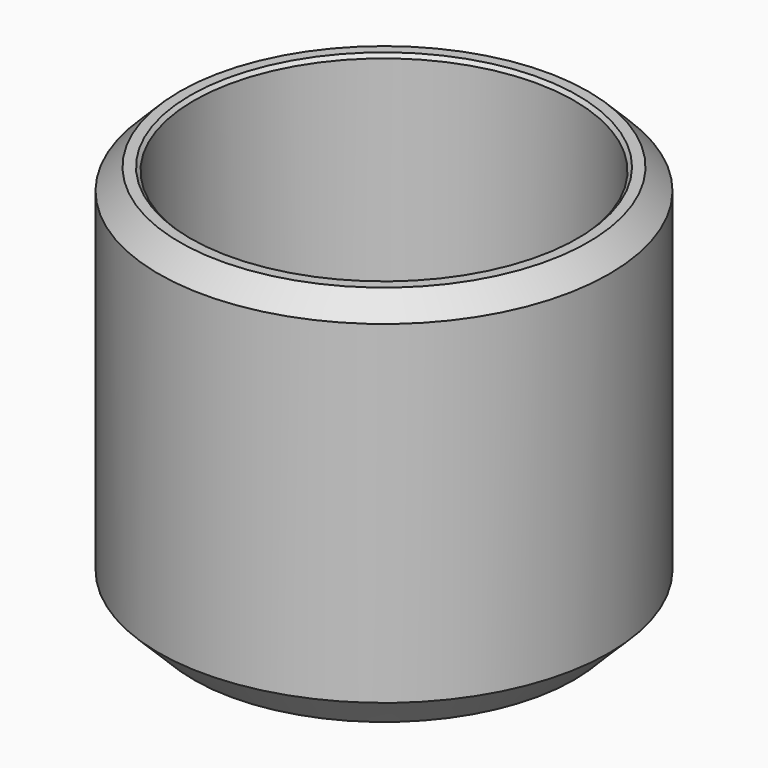
from build123d import *


with BuildPart() as part:
    # Sketch → Revolution (revolve)
    with BuildSketch(Plane.XZ):
        with BuildLine():
            Line((-16.25, 33), (-16.25, 3))
            Line((-16.25, 3), (-3.5, 3))
            ThreePointArc((-3, 2.5), (-3.146447, 2.853553), (-3.5, 3))
            Line((-3, 2.5), (-3, 1))
            ThreePointArc((-4, 0), (-3.292893, 0.292893), (-3, 1))
            Line((-4, 0), (-16.25, 0))
            Line((-19.25, 3), (-16.25, 0))
            Line((-19.25, 3), (-19.25, 31.5))
            Line((-17.45, 33.3), (-19.25, 31.5))
            Line((-17.45, 33.3), (-16.55, 33.3))
            Line((-16.25, 33), (-16.55, 33.3))
        make_face()
    revolve(axis=Axis((0, 0, 0), (0, 0, 1)))


solid = part.part
